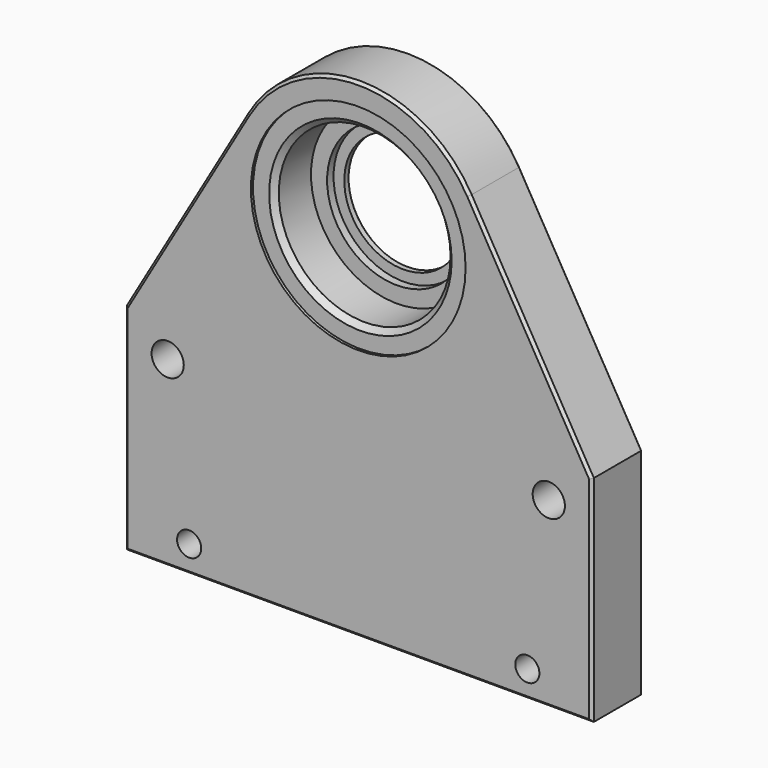
from build123d import *

# Parameters (mm, degrees)
F0_R           = 11
F1_DEPTH       = 6
F3_D           = 6
F3_DEPTH       = 18
F3_CBORE_D     = 7.5
F3_CBORE_DEPTH = 4.5
F4_D           = 4.5
F4_DEPTH       = 18
F4_CBORE_D     = 7.5
F4_CBORE_DEPTH = 4.5
F5_W           = 11
F5_H           = 1.5
F7_SIZE        = 0.5


with BuildPart() as f1:
    # F0 (on Front) → F1 (new body, symmetric)
    with BuildSketch(Plane.XZ):
        with BuildLine():
            Line((-20.738746, 12.07909), (-43.5, -27))
            Line((-43.5, -27), (-43.5, -67))
            Line((-43.5, -67), (43.5, -67))
            Line((43.5, -67), (43.5, -27))
            Line((43.5, -27), (20.738746, 12.07909))
            ThreePointArc((20.738746, 12.07909), (0, 24), (-20.738746, 12.07909))
        make_face()
        Circle(F0_R, mode=Mode.SUBTRACT)
    extrude(amount=F1_DEPTH, both=True)

    # F3
    with Locations(Plane(origin=(0, 6, 0), x_dir=(-1, 0, 0), z_dir=(0, 1, 0))):
        with Locations((-35.5, -33), (35.5, -33)):
            CounterBoreHole(F3_D / 2, F3_CBORE_D / 2, F3_CBORE_DEPTH, depth=F3_DEPTH)

    # F4
    with Locations(Plane(origin=(0, 6, 0), x_dir=(-1, 0, 0), z_dir=(0, 1, 0))):
        with Locations((-31.5, -62), (31.5, -62)):
            CounterBoreHole(F4_D / 2, F4_CBORE_D / 2, F4_CBORE_DEPTH, depth=F4_DEPTH)

    # F5 (on Top) → F6 (revolve, cut)
    with BuildSketch(Plane.XY):
        with Locations((5.5, 5.25)):
            Rectangle(F5_W, F5_H)
        Polygon((13, 4.5), (11, 4.5), (0, 4.5), (0, 3), (13, 3), align=None)
        Polygon((13, 3), (0, 3), (0, -4.5), (16, -4.5), (16, 3), align=None)
        Polygon((16, -4.5), (0, -4.5), (0, -5.5), (17, -5.5), align=None)
        Polygon((17, -5.5), (0, -5.5), (0, -6), (20, -6), (20, -5.5), align=None)
    revolve(axis=Axis((0, 3.886208, 0), (0, -1, 0)), mode=Mode.SUBTRACT)

    # F7
    f7_edges = [f1.edges().sort_by_distance(p)[0] for p in [
        (-11, 6, 0),
        (32.119373, 6, -7.460455),
        (0, 6, 24),
        (43.5, 6, -47),
        (0, 6, -67),
        (-43.5, 6, -47),
        (-32.119373, 6, -7.460455),
        (0, -6, 24),
        (32.119373, -6, -7.460455),
        (-32.119373, -6, -7.460455),
        (-43.5, -6, -47),
        (43.5, -6, -47),
        (0, -6, -67),
    ]]
    chamfer(f7_edges, length=F7_SIZE)


solid = f1.part
